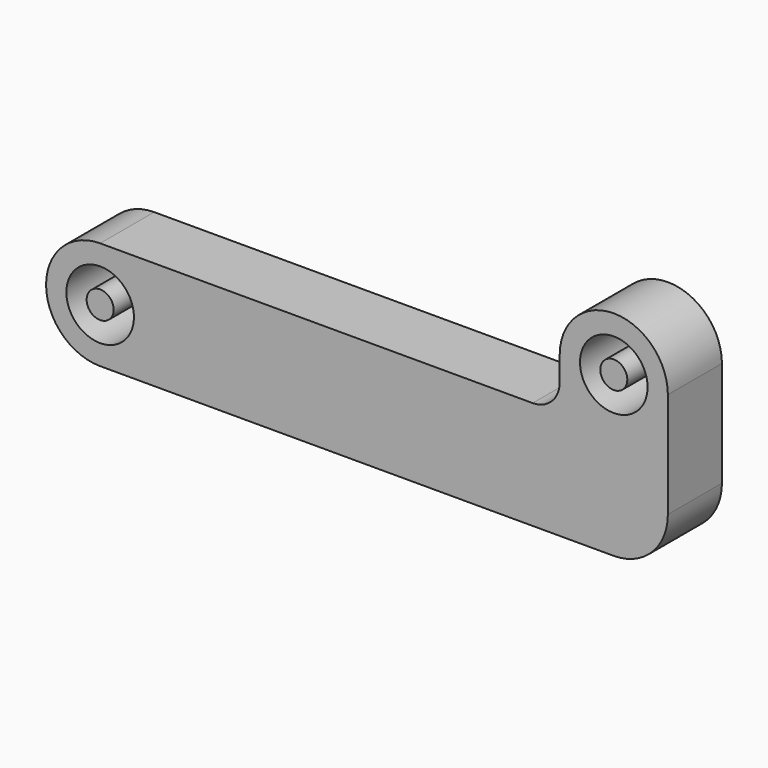
from build123d import *

# Parameters (mm, degrees)
F0_R     = 2.5
F0_R_2   = 1
F1_DEPTH = 2.5


with BuildPart() as f1:
    # F0 (on Front) → F1 (new body, symmetric)
    with BuildSketch(Plane.XZ):
        with BuildLine():
            Line((32, 4), (0, 4))
            ThreePointArc((0, 4), (-4, 0), (0, -4))
            Line((0, -4), (38, -4))
            ThreePointArc((38, -4), (40.828427, -2.828427), (42, 0))
            Line((42, 0), (42, 7.8))
            ThreePointArc((42, 7.8), (38, 11.8), (34, 7.8))
            Line((34, 7.8), (34, 6))
            ThreePointArc((34, 6), (33.414214, 4.585786), (32, 4))
        make_face()
        Circle(F0_R, mode=Mode.SUBTRACT)
        with Locations((38, 7.8)):
            Circle(F0_R, mode=Mode.SUBTRACT)
        Circle(F0_R_2)
        with Locations((38, 7.8)):
            Circle(F0_R_2)
    extrude(amount=F1_DEPTH, both=True)


solid = f1.part
